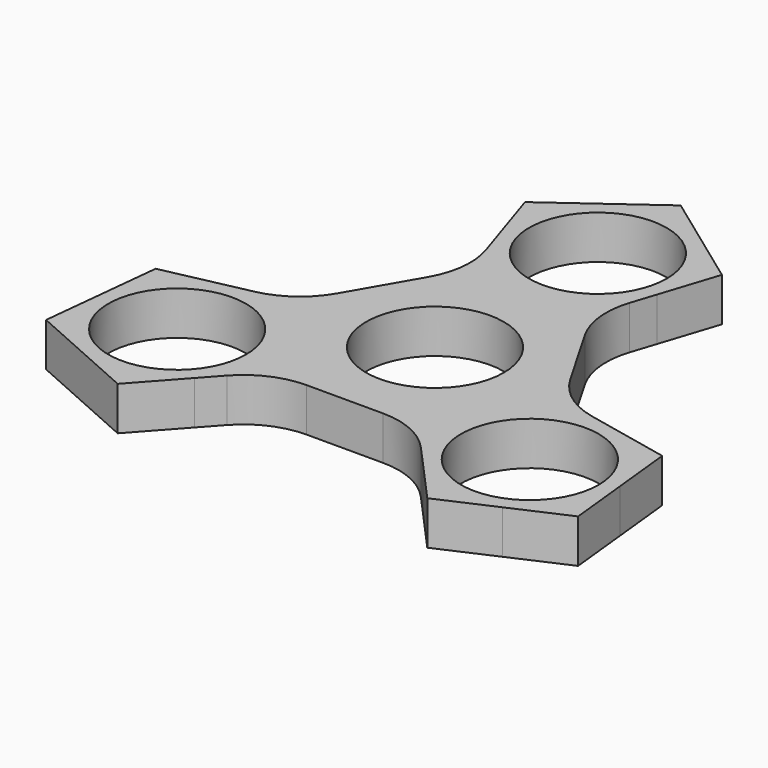
from build123d import *

# Parameters (mm, degrees)
F0_R     = 11.0363
F1_DEPTH = 6.985


with BuildPart() as f1:
    # F0 (on Top) → F1 (new body)
    with BuildSketch(Plane.XY):
        with BuildLine():
            ThreePointArc((12.7707550595, 28.4936086172), (13.2626459449, 30.5424816606), (13.4279664867, 32.6430783639))
            ThreePointArc((13.4279664867, 32.6430783639), (11.9644057547, 38.739247563), (7.8927606994, 43.5065314296))
            ThreePointArc((7.8927606994, 43.5065314296), (-4.13e-08, 46.0710448506), (-7.8927607663, 43.506531381))
            ThreePointArc((-7.8927607663, 43.506531381), (-12.7707550555, 36.7925481229), (-12.7707550095, 28.4936084631))
            ThreePointArc((-12.7707550095, 28.4936084631), (8.1e-08, 19.2151118771), (12.7707550595, 28.4936086172))
        make_face()
        with Locations((0, 32.6430783639)):
            Circle(F0_R, mode=Mode.SUBTRACT)
        with BuildLine():
            ThreePointArc((7.8927606994, 43.5065314296), (11.9644057547, 38.739247563), (13.4279664867, 32.6430783639))
            ThreePointArc((13.4279664867, 32.6430783639), (13.2626459449, 30.5424816606), (12.7707550595, 28.4936086172))
            Line((12.7707550595, 28.4936086172), (15.7855213384, 37.772105162))
            Line((15.7855213384, 37.772105162), (7.8927606994, 43.5065314296))
        make_face()
        with BuildLine():
            ThreePointArc((-7.8927607663, 43.506531381), (-4.13e-08, 46.0710448506), (7.8927606994, 43.5065314296))
            Line((7.8927606994, 43.5065314296), (0, 49.2409577411))
            Line((0, 49.2409577411), (-7.8927607663, 43.506531381))
        make_face()
        with BuildLine():
            Line((11.5032957401, 24.5927699357), (12.7707550595, 28.4936086172))
            ThreePointArc((12.7707550595, 28.4936086172), (8.1e-08, 19.2151118771), (-12.7707550095, 28.4936084631))
            Line((-12.7707550095, 28.4936084631), (-11.5032957401, 24.5927699357))
            ThreePointArc((-11.5032957401, 24.5927699357), (-10.9512854258, 19.3407426236), (-12.583190869, 14.3182541071))
            Line((-12.583190869, 14.3182541071), (-18.6915672291, 3.7382358996))
            ThreePointArc((-18.6915672291, 3.7382358996), (-22.225217153, -0.1862799289), (-27.0496113837, -2.3342386297))
            Line((-27.0496113837, -2.3342386297), (-31.0615663455, -3.1870059819))
            ThreePointArc((-31.0615663455, -3.1870059819), (-19.8192420037, -5.8860492535), (-14.8417686341, -16.3215391819))
            ThreePointArc((-14.8417686341, -16.3215391819), (-15.7336484589, -21.1336920446), (-18.2908113758, -25.306602613))
            Line((-18.2908113758, -25.306602613), (-15.5463156437, -22.258531306))
            ThreePointArc((-15.5463156437, -22.258531306), (-11.2739317272, -19.1544626947), (-6.1083763601, -18.0564900067))
            Line((-6.1083763601, -18.0564900067), (6.1083763601, -18.0564900067))
            ThreePointArc((6.1083763601, -18.0564900067), (11.2739317272, -19.1544626947), (15.5463156437, -22.258531306))
            Line((15.5463156437, -22.258531306), (18.2908113758, -25.306602613))
            ThreePointArc((18.2908113758, -25.306602613), (16.6407750687, -9.607555858), (31.0615666162, -3.1870060395))
            Line((31.0615666162, -3.1870060395), (27.0496113837, -2.3342386297))
            ThreePointArc((27.0496113837, -2.3342386297), (22.225217153, -0.1862799289), (18.6915672291, 3.7382358996))
            Line((18.6915672291, 3.7382358996), (12.583190869, 14.3182541071))
            ThreePointArc((12.583190869, 14.3182541071), (10.9512854258, 19.3407426236), (11.5032957401, 24.5927699357))
        make_face()
        Circle(F0_R, mode=Mode.SUBTRACT)
        with BuildLine():
            ThreePointArc((-12.7707550095, 28.4936084631), (-12.7707550555, 36.7925481229), (-7.8927607663, 43.506531381))
            Line((-7.8927607663, 43.506531381), (-15.7855213384, 37.772105162))
            Line((-15.7855213384, 37.772105162), (-12.7707550095, 28.4936084631))
        make_face()
        with BuildLine():
            Line((40.6043632939, -5.21539009), (31.0615666162, -3.1870060395))
            ThreePointArc((31.0615666162, -3.1870060395), (38.2486591322, -7.3364760466), (41.6241418349, -14.9179347913))
            Line((41.6241418349, -14.9179347913), (40.6043632939, -5.21539009))
        make_face()
        with BuildLine():
            ThreePointArc((41.6241418349, -14.9179347913), (38.2486591322, -7.3364760466), (31.0615666162, -3.1870060395))
            ThreePointArc((31.0615666162, -3.1870060395), (16.6407750687, -9.607555858), (18.2908113758, -25.306602613))
            ThreePointArc((18.2908113758, -25.306602613), (25.4779040103, -29.4560724062), (33.7313812405, -28.5885969234))
            ThreePointArc((33.7313812405, -28.5885969234), (39.5313754327, -23.6349338421), (41.6977016076, -16.3215391819))
            ThreePointArc((41.6977016076, -16.3215391819), (41.6792990544, -15.6187738716), (41.6241418349, -14.9179347913))
        make_face()
        with Locations((28.2697351208, -16.3215391819)):
            Circle(F0_R, mode=Mode.SUBTRACT)
        with BuildLine():
            ThreePointArc((-14.8417686341, -16.3215391819), (-19.8192420037, -5.8860492535), (-31.0615663455, -3.1870059819))
            ThreePointArc((-31.0615663455, -3.1870059819), (-38.2486589518, -7.3364758463), (-41.6241418074, -14.9179345303))
            ThreePointArc((-41.6241418074, -14.9179345303), (-39.8986951958, -23.0355224663), (-33.7313810924, -28.5885969893))
            ThreePointArc((-33.7313810924, -28.5885969893), (-25.477903931, -29.4560723893), (-18.2908113758, -25.306602613))
            ThreePointArc((-18.2908113758, -25.306602613), (-15.7336484589, -21.1336920446), (-14.8417686341, -16.3215391819))
        make_face()
        with Locations((-28.2697351208, -16.3215391819)):
            Circle(F0_R, mode=Mode.SUBTRACT)
        with BuildLine():
            ThreePointArc((-41.6241418074, -14.9179345303), (-38.2486589518, -7.3364758463), (-31.0615663455, -3.1870059819))
            Line((-31.0615663455, -3.1870059819), (-40.6043632939, -5.21539009))
            Line((-40.6043632939, -5.21539009), (-41.6241418074, -14.9179345303))
        make_face()
        with BuildLine():
            Line((42.6439203104, -24.6204788705), (41.6241418349, -14.9179347913))
            ThreePointArc((41.6241418349, -14.9179347913), (41.6792990544, -15.6187738716), (41.6977016076, -16.3215391819))
            ThreePointArc((41.6977016076, -16.3215391819), (39.5313754327, -23.6349338421), (33.7313812405, -28.5885969234))
            Line((33.7313812405, -28.5885969234), (42.6439203104, -24.6204788705))
        make_face()
        with BuildLine():
            ThreePointArc((33.7313812405, -28.5885969234), (25.4779040103, -29.4560724062), (18.2908113758, -25.306602613))
            Line((18.2908113758, -25.306602613), (24.8188419555, -32.556715072))
            Line((24.8188419555, -32.556715072), (33.7313812405, -28.5885969234))
        make_face()
        with BuildLine():
            ThreePointArc((-33.7313810924, -28.5885969893), (-39.8986951958, -23.0355224663), (-41.6241418074, -14.9179345303))
            Line((-41.6241418074, -14.9179345303), (-42.6439203104, -24.6204788705))
            Line((-42.6439203104, -24.6204788705), (-33.7313810924, -28.5885969893))
        make_face()
        with BuildLine():
            Line((-24.8188419555, -32.556715072), (-18.2908113758, -25.306602613))
            ThreePointArc((-18.2908113758, -25.306602613), (-25.477903931, -29.4560723893), (-33.7313810924, -28.5885969893))
            Line((-33.7313810924, -28.5885969893), (-24.8188419555, -32.556715072))
        make_face()
    extrude(amount=F1_DEPTH)


solid = f1.part
